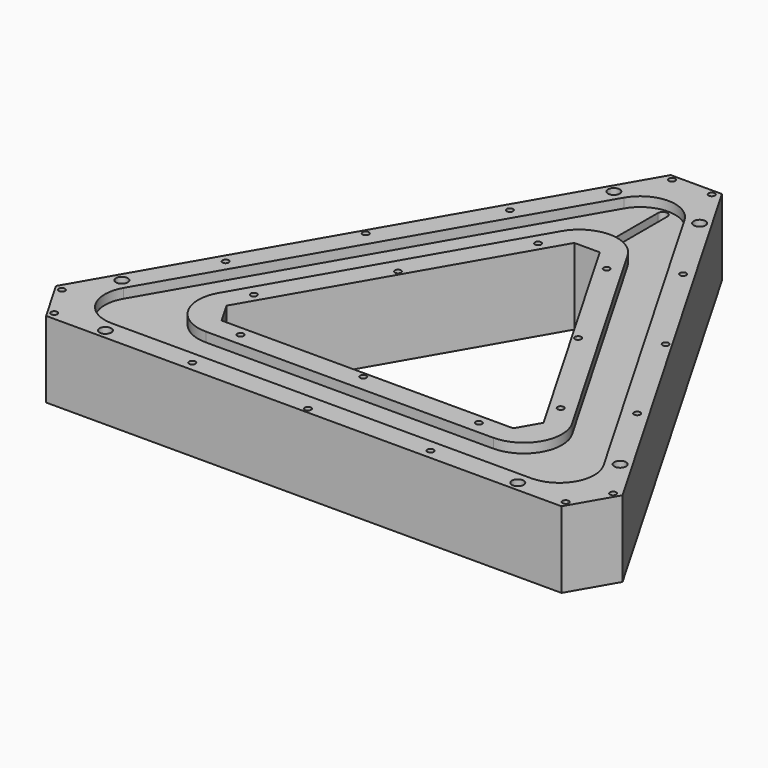
from build123d import *

# Parameters (mm, degrees)
PAD_DEPTH             = 24
POCKET_DEPTH          = 3
SKETCH002_W           = 70
SKETCH002_H           = 18.5
POCKET001_DEPTH       = 18
POLARPATTERN_COUNT    = 3
POCKET002_DEPTH       = 6
CHAMFER_SIZE          = 8
FILLET_R              = 13
FILLET001_R           = 11
CHAMFER001_SIZE       = 16.1
FILLET002_R           = 11
FILLET003_R           = 12
POCKET003_DEPTH       = 6
POCKET004_DEPTH       = 18
POCKET005_DEPTH       = 21.001
SKETCH007_W           = 15.5
SKETCH007_H           = 15
POCKET006_DEPTH       = 5
SKETCH010_W           = 13.6
SKETCH010_H           = 9
POCKET009_DEPTH       = 15.5
POCKET010_DEPTH       = 3
SKETCH012_R           = 1.85
SKETCH012_R_2         = 0.99
POCKET011_DEPTH       = 498.0492855781
POLARPATTERN001_COUNT = 3
POCKET012_DEPTH       = 12


with BuildPart() as part:
    # Sketch → Pad (new body)
    with BuildSketch(Plane.XY):
        Polygon((0, 112.2094915052), (-97.1762701892, -56.1047457526), (97.1762701892, -56.1047457526), align=None)
        Polygon((0, 62.2094915052), (-53.875, -31.1047457526), (53.875, -31.1047457526), align=None, mode=Mode.SUBTRACT)
    extrude(amount=PAD_DEPTH)

    # Sketch001 (on Face8 of Pad) → Pocket (cut)
    with BuildSketch(Plane.XY.offset(24)):
        Polygon((0, 98.2094915052), (-85.0519145362, -49.1047457526), (85.0519145362, -49.1047457526), align=None)
        Polygon((0, 76.2094915052), (-65.999355653, -38.1047457526), (65.999355653, -38.1047457526), align=None, mode=Mode.SUBTRACT)
    extrude(amount=-POCKET_DEPTH, mode=Mode.SUBTRACT)

    # Sketch002 (on Face4 of Pocket) → Pocket001 (cut)
    with BuildSketch(Plane(origin=(0, 0, 0), x_dir=(1, 0, 0), z_dir=(0, 0, -1))):
        with Locations((0, 43.6047457526)):
            Rectangle(SKETCH002_W, SKETCH002_H)
    pocket001 = extrude(amount=-POCKET001_DEPTH, mode=Mode.SUBTRACT)

    # PolarPattern: Pocket001 ×3 about axis
    polarpattern_axis = Axis((0, 0, 0), (0, 0, -1))
    for i in range(1, POLARPATTERN_COUNT):
        add(pocket001.rotate(polarpattern_axis, i * 360 / POLARPATTERN_COUNT), mode=Mode.SUBTRACT)

    # Sketch003 (on Face4 of PolarPattern) → Pocket002 (cut)
    with BuildSketch(Plane(origin=(0, 0, 0), x_dir=(1, 0, 0), z_dir=(0, 0, -1))):
        Polygon((0, -100.2094915052), (86.7839653438, 50.1047457526), (-86.7839653438, 50.1047457526), align=None)
        Polygon((0, -74.2094915052), (64.2673048454, 37.1047457526), (-64.2673048454, 37.1047457526), align=None, mode=Mode.SUBTRACT)
    extrude(amount=-POCKET002_DEPTH, mode=Mode.SUBTRACT)

    # Chamfer
    chamfer_edges = [part.edges().sort_by_distance(p)[0] for p in [
        (-53.875, -31.104746, 12),
        (53.875, -31.104746, 12),
        (0, 62.209492, 12),
    ]]
    chamfer(chamfer_edges, length=CHAMFER_SIZE)

    # Fillet
    fillet_edges = [part.edges().sort_by_distance(p)[0] for p in [
        (0, 100.209492, 3),
        (-86.783965, -50.104746, 3),
        (86.783965, -50.104746, 3),
    ]]
    fillet(fillet_edges, radius=FILLET_R)

    # Fillet001
    fillet001_edges = [part.edges().sort_by_distance(p)[0] for p in [
        (0, 74.209492, 3),
        (64.267305, -37.104746, 3),
        (-64.267305, -37.104746, 3),
    ]]
    fillet(fillet001_edges, radius=FILLET001_R)

    # Chamfer001
    chamfer001_edges = [part.edges().sort_by_distance(p)[0] for p in [
        (97.17627, -56.104746, 12),
        (0, 112.209492, 12),
        (-97.17627, -56.104746, 12),
    ]]
    chamfer(chamfer001_edges, length=CHAMFER001_SIZE)

    # Fillet002
    fillet002_edges = [part.edges().sort_by_distance(p)[0] for p in [
        (0, 98.209492, 22.5),
        (-85.051915, -49.104746, 22.5),
        (85.051915, -49.104746, 22.5),
    ]]
    fillet(fillet002_edges, radius=FILLET002_R)

    # Fillet003
    fillet003_edges = [part.edges().sort_by_distance(p)[0] for p in [
        (65.999356, -38.104746, 22.5),
        (0, 76.209492, 22.5),
        (-65.999356, -38.104746, 22.5),
    ]]
    fillet(fillet003_edges, radius=FILLET003_R)

    # Sketch004 (on Face60 of Fillet003) → Pocket003 (cut)
    with BuildSketch(Plane(origin=(0, 0, 6), x_dir=(1, 0, 0), z_dir=(0, 0, -1))):
        Polygon((-8.75, -71.2664825043), (8.75, -71.2664825043), (8.75, -94.7664825043), (4, -94.7664825043), (4, -98.2664825043), (-4, -98.2664825043), (-4, -94.7664825043), (-8.75, -94.7664825043), align=None)
    extrude(amount=-POCKET003_DEPTH, mode=Mode.SUBTRACT)

    # Sketch005 (on Face29 of Pocket003) → Pocket004 (cut)
    with BuildSketch(Plane(origin=(0, 0, 0), x_dir=(1, 0, 0), z_dir=(0, 0, -1))):
        Polygon((46.1715988394, 38.9547457526), (68.6882593378, 51.9547457526), (79.3382593378, 33.508404652), (56.8215988394, 20.508404652), align=None)
    extrude(amount=-POCKET004_DEPTH, mode=Mode.SUBTRACT)

    # Sketch006 (on Face1 of Pocket004) → Pocket005 (cut, through all)
    with BuildSketch(Plane.XY.offset(21)):
        with BuildLine():
            ThreePointArc((1.5, 85.0404521425), (0, 86.5404521425), (-1.5, 85.0404521425))
            Line((-1.5, 85.0404521425), (-1.5, 66.0404521425))
            ThreePointArc((-1.5, 66.0404521425), (0, 64.5404521425), (1.5, 66.0404521425))
            Line((1.5, 85.0404521425), (1.5, 66.0404521425))
        make_face()
    extrude(amount=-POCKET005_DEPTH, mode=Mode.SUBTRACT)

    # Sketch007 (on Face24 of Pocket005) → Pocket006 (cut)
    with BuildSketch(Plane(origin=(-48.5881350946, 28.0523728763, 0), x_dir=(-0.5, -0.8660254038, 0), z_dir=(-0.8660254038, 0.5, 0))):
        with Locations((-47.3262701892, 13.5)):
            Rectangle(SKETCH007_W, SKETCH007_H)
    extrude(amount=-POCKET006_DEPTH, mode=Mode.SUBTRACT)

    # Sketch010 (on Face79 of Pocket006) → Pocket009 (cut)
    with BuildSketch(Plane(origin=(-44.2580080757, 25.5523728763, 0), x_dir=(-0.5, -0.8660254038, 0), z_dir=(-0.8660254038, 0.5, 0))):
        with Locations((-47.3262701892, 13.5)):
            Rectangle(SKETCH010_W, SKETCH010_H)
    extrude(amount=-POCKET009_DEPTH, mode=Mode.SUBTRACT)

    # Sketch011 (on Face21 of Pocket009) → Pocket010 (cut)
    with BuildSketch(Plane(origin=(0, 0, 6), x_dir=(1, 0, 0), z_dir=(0, 0, -1))):
        Polygon((-21.0413798427, -59.7570681827), (-11.6817654684, -54.3532923042), (-6.658482036, -63.0538744299), (-16.0180964103, -68.4576503084), align=None)
    extrude(amount=-POCKET010_DEPTH, mode=Mode.SUBTRACT)

    # Sketch012 (on Face54 of Pocket010) → Pocket011 (cut, through all)
    with BuildSketch(Plane(origin=(0, 0, 0), x_dir=(1, 0, 0), z_dir=(0, 0, -1))):
        with Locations((-13.5, -82.7032108255)):
            Circle(SKETCH012_R)
        with Locations((13.5, -82.7032108255)):
            Circle(SKETCH012_R)
        with Locations((-6.25, -96.5164825043)):
            Circle(SKETCH012_R_2)
        with Locations((6.25, -96.5164825043)):
            Circle(SKETCH012_R_2)
        with Locations((-27.2463245869, -59.0174730012)):
            Circle(SKETCH012_R_2)
        with Locations((-47.1862074814, -27.2405827309)):
            Circle(SKETCH012_R_2)
        with Locations((-64.7337931796, 5.9127272486)):
            Circle(SKETCH012_R_2)
        with Locations((-10.791841915, -49.5174730012)):
            Circle(SKETCH012_R_2)
        with Locations((-28.3394276132, -16.3641630217)):
            Circle(SKETCH012_R_2)
        with Locations((-48.2793105078, 15.4127272487)):
            Circle(SKETCH012_R_2)
    pocket011 = extrude(amount=-POCKET011_DEPTH, mode=Mode.SUBTRACT)

    # PolarPattern001: Pocket011 ×3 about axis
    polarpattern001_axis = Axis((0, 0, 0), (0, 0, -1))
    for i in range(1, POLARPATTERN001_COUNT):
        add(pocket011.rotate(polarpattern001_axis, i * 360 / POLARPATTERN001_COUNT), mode=Mode.SUBTRACT)

    # Sketch013 (on Face132 of PolarPattern001) → Pocket012 (cut)
    with BuildSketch(Plane(origin=(0, 0, 6), x_dir=(1, 0, 0), z_dir=(0, 0, -1))):
        Polygon((58.553649647, 21.508404652), (63.3167893678, 24.258404652), (66.3167893678, 19.0622522293), (61.553649647, 16.3122522293), align=None)
    extrude(amount=-POCKET012_DEPTH, mode=Mode.SUBTRACT)


solid = part.part
